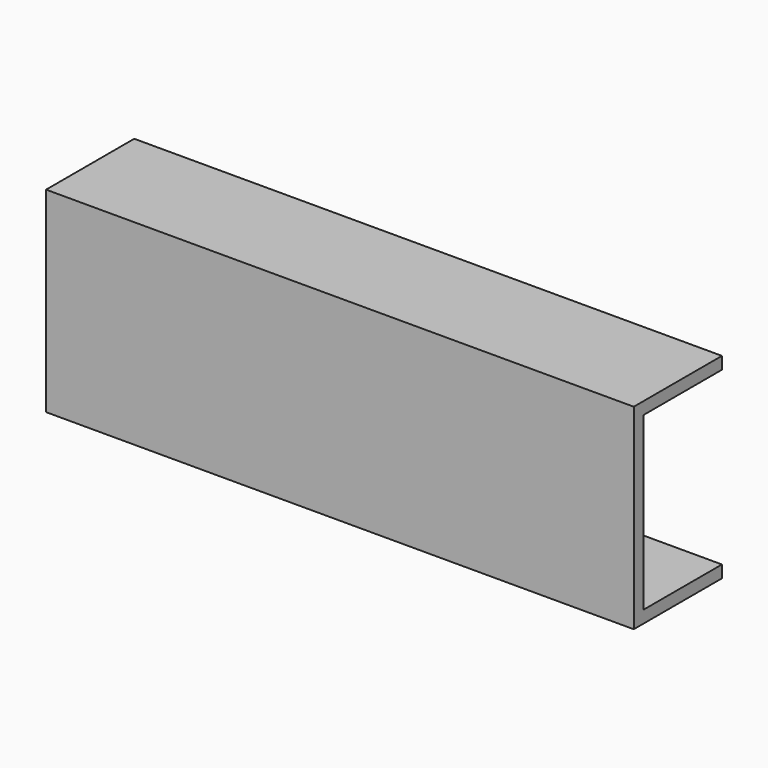
from build123d import *

# Parameters (mm, degrees)
F0_W     = 304.8
F0_H     = 101.6
F1_DEPTH = 6.35
F2_W     = 304.8
F2_H     = 6.35
F3_DEPTH = 50.8
F4_DEPTH = 50.8


with BuildPart() as f1:
    # F0 (on Front) → F1 (new body)
    with BuildSketch(Plane.XZ):
        with Locations((19.505125, -12.510431)):
            Rectangle(F0_W, F0_H)
    extrude(amount=F1_DEPTH)

    # F2 (on face) → F3 (join)
    with BuildSketch(Plane(origin=(0, 0, 0), x_dir=(-1, 0, 0), z_dir=(0, 1, 0))):
        with Locations((-19.505125, 35.114569)):
            Rectangle(F2_W, F2_H)
    extrude(amount=F3_DEPTH)

    # F2 (on face) → F4 (join)
    with BuildSketch(Plane(origin=(0, 0, 0), x_dir=(-1, 0, 0), z_dir=(0, 1, 0))):
        with Locations((-19.505125, -60.135431)):
            Rectangle(F2_W, F2_H)
    extrude(amount=F4_DEPTH)


solid = f1.part
